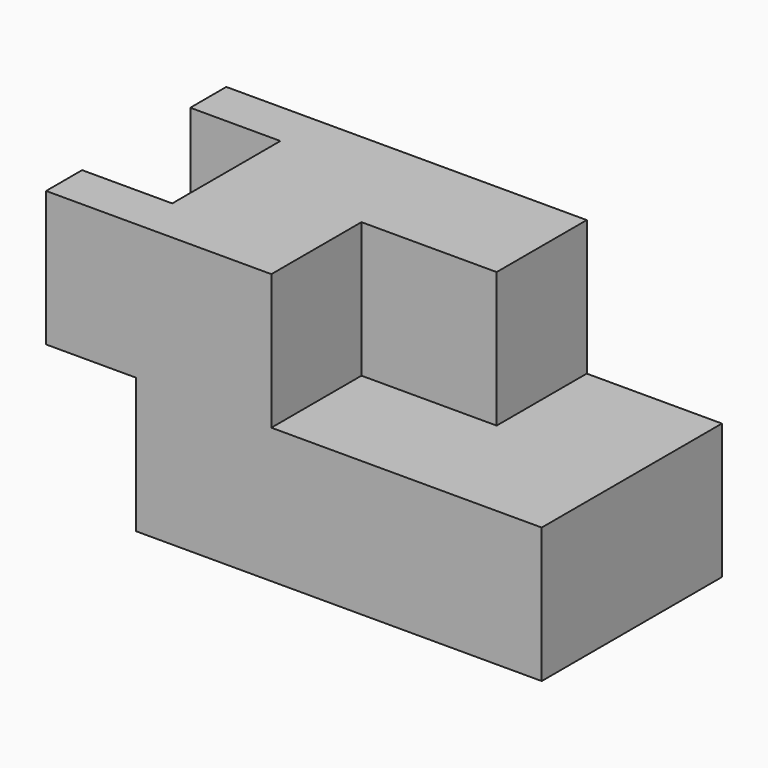
from build123d import *

# Parameters (mm, degrees)
F0_W     = 20
F0_H     = 30
F0_W_2   = 30
F1_DEPTH = 25
F2_DEPTH = 25
F3_DEPTH = 15


with BuildPart() as f1:
    # F0 (on Front) → F1 (new body, symmetric)
    with BuildSketch(Plane.XZ):
        Polygon((0, 30), (0, 0), (90, 0), (90, 30), (60, 30), (30, 30), (30, 60), (0, 60), align=None)
        with Locations((-10, 45)):
            Rectangle(F0_W, F0_H)
        with Locations((45, 45)):
            Rectangle(F0_W_2, F0_H)
    extrude(amount=F1_DEPTH, both=True)

    # F0 (on Front) → F2 (cut)
    with BuildSketch(Plane.XZ):
        with Locations((45, 45)):
            Rectangle(F0_W_2, F0_H)
    extrude(amount=F2_DEPTH, mode=Mode.SUBTRACT)

    # F0 (on Front) → F3 (cut, symmetric)
    with BuildSketch(Plane.XZ):
        with Locations((-10, 45)):
            Rectangle(F0_W, F0_H)
    extrude(amount=F3_DEPTH, both=True, mode=Mode.SUBTRACT)


solid = f1.part
